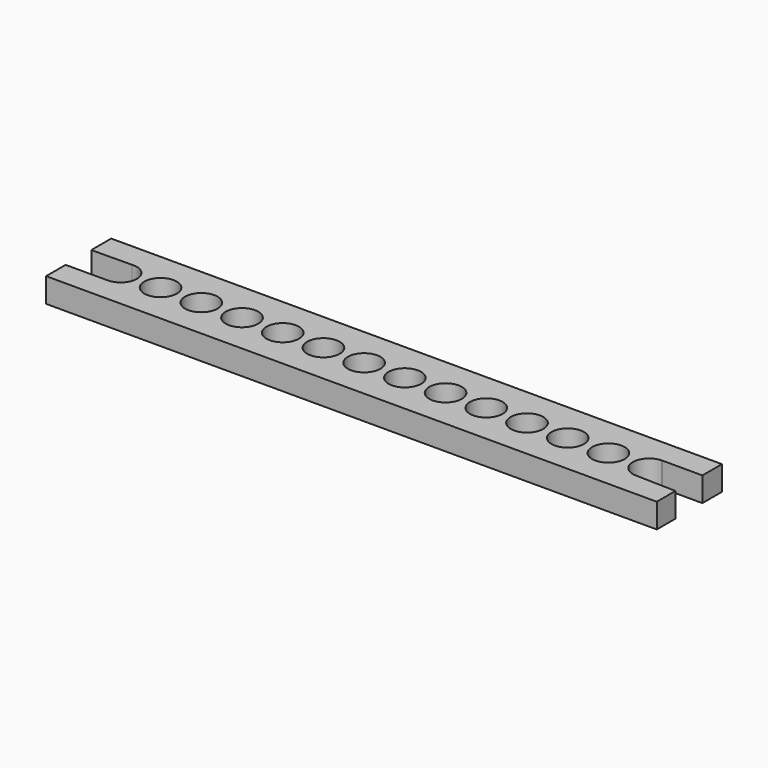
from build123d import *

# Parameters (mm, degrees)
F0_R     = 2
F1_DEPTH = 3


with BuildPart() as f1:
    # F0 (on Top) → F1 (new body)
    with BuildSketch(Plane.XY):
        with BuildLine():
            Line((-37.5, -5), (37.5, -5))
            Line((37.5, -5), (37.5, -2.131387))
            Line((37.5, -2.131387), (32.50913, -1.9993))
            ThreePointArc((32.50913, -1.9993), (30.562048, -0.004567), (32.5, 1.999037))
            ThreePointArc((32.5, 1.999037), (32.562172, 2), (32.624343, 1.999029))
            Line((32.624343, 1.999029), (37.5, 1.998715))
            Line((37.5, 1.998715), (37.5, 5))
            Line((37.5, 5), (-37.5, 5))
            Line((-37.5, 5), (-37.5, 1.939646))
            Line((-37.5, 1.939646), (-32.523661, 1.992048))
            ThreePointArc((-32.523661, 1.992048), (-30.346636, 0.067762), (-32.388344, -1.999541))
            Line((-32.388344, -1.999541), (-37.5, -1.999541))
            Line((-37.5, -1.999541), (-37.5, -5))
        make_face()
        with Locations((-27.437957, 0)):
            Circle(F0_R, mode=Mode.SUBTRACT)
        with Locations((-22.437957, 0)):
            Circle(F0_R, mode=Mode.SUBTRACT)
        with Locations((-17.437957, 0)):
            Circle(F0_R, mode=Mode.SUBTRACT)
        with Locations((-12.437957, 0)):
            Circle(F0_R, mode=Mode.SUBTRACT)
        with Locations((-7.437957, 0)):
            Circle(F0_R, mode=Mode.SUBTRACT)
        with BuildLine():
            ThreePointArc((-0.437957, 0), (-2.437957, -2), (-4.437957, 0))
            ThreePointArc((-4.437957, 0), (-2.437957, 2), (-0.437957, 0))
        make_face(mode=Mode.SUBTRACT)
        with Locations((2.562043, 0)):
            Circle(F0_R, mode=Mode.SUBTRACT)
        with Locations((7.562043, 0)):
            Circle(F0_R, mode=Mode.SUBTRACT)
        with Locations((12.562043, 0)):
            Circle(F0_R, mode=Mode.SUBTRACT)
        with Locations((17.562043, 0)):
            Circle(F0_R, mode=Mode.SUBTRACT)
        with Locations((22.562043, 0)):
            Circle(F0_R, mode=Mode.SUBTRACT)
        with Locations((27.562043, 0)):
            Circle(F0_R, mode=Mode.SUBTRACT)
        with BuildLine():
            ThreePointArc((32.624343, 1.999029), (32.562172, 2), (32.5, 1.999037))
            Line((32.5, 1.999037), (32.624343, 1.999029))
        make_face()
    extrude(amount=F1_DEPTH)


solid = f1.part
